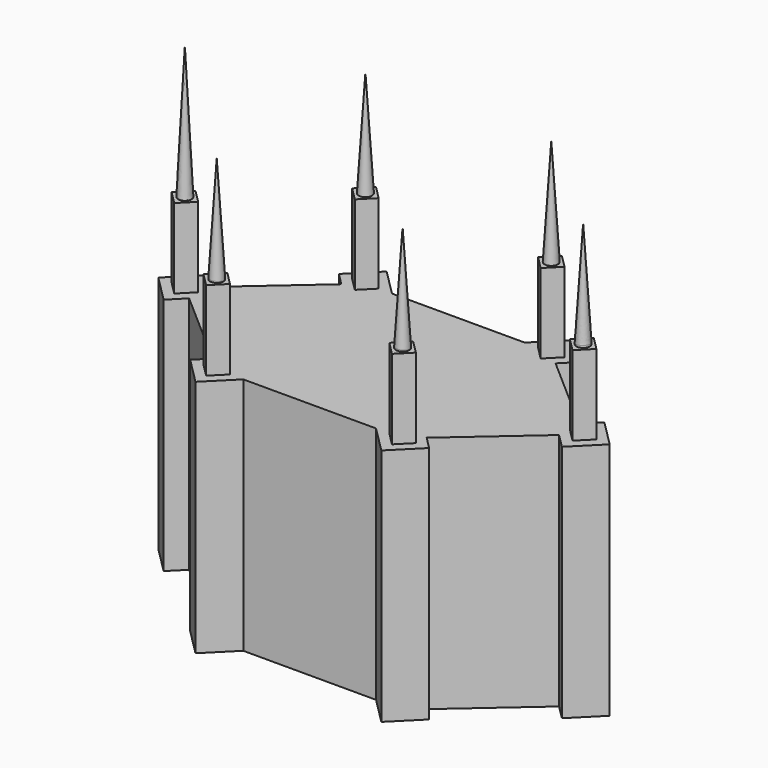
from build123d import *

# Parameters (mm, degrees)
F1_DEPTH = 228.6
F2_R     = 6.35
F3_DEPTH = 76.2
F2_R_2   = 0.031882
F4_DEPTH = 177.8
F5_DEPTH = 203.2


with BuildPart() as f1:
    # F0 (on Top) → F1 (new body)
    with BuildSketch(Plane.XY):
        Polygon((-190.5, 0), (-176.955379, 11.851543), (-190.5, 25.396164), (-215.896164, 0), (-190.5, -25.396164), (-176.955379, -11.851543), align=None)
        Polygon((-165.103836, 0), (-176.955379, 11.851543), (-190.5, 0), (-176.955379, -11.851543), align=None)
        Polygon((-88.9, 0), (-88.9, 63.5), (-102.446667, 77.046667), (-176.955379, 11.851543), (-165.103836, 0), (-176.955379, -11.851543), (-102.446667, -77.046667), (-88.9, -63.5), align=None)
        Polygon((-88.9, 63.5), (-63.5, 88.9), (-88.9, 114.3), (-114.3, 88.9), (-102.446667, 77.046667), align=None)
        Polygon((-63.5, -88.9), (-88.9, -63.5), (-102.446667, -77.046667), (-114.3, -88.9), (-88.9, -114.3), align=None)
        Polygon((102.446667, -77.046667), (88.9, -63.5), (63.5, -88.9), (88.9, -114.3), (114.3, -88.9), align=None)
        Polygon((102.446667, 77.046667), (88.9, 63.5), (88.9, 0), (88.9, -63.5), (102.446667, -77.046667), (176.955379, -11.851543), (165.103836, 0), (176.955379, 11.851543), align=None)
        Polygon((63.5, 88.9), (0, 88.9), (-63.5, 88.9), (-88.9, 63.5), (-88.9, 0), (-88.9, -63.5), (-63.5, -88.9), (0, -88.9), (63.5, -88.9), (88.9, -63.5), (88.9, 0), (88.9, 63.5), align=None)
        Polygon((88.9, 114.3), (63.5, 88.9), (88.9, 63.5), (102.446667, 77.046667), (114.3, 88.9), align=None)
        Polygon((190.5, 25.396164), (176.955379, 11.851543), (190.5, 0), (176.955379, -11.851543), (190.5, -25.396164), (215.896164, 0), align=None)
        Polygon((190.5, 0), (176.955379, 11.851543), (165.103836, 0), (176.955379, -11.851543), align=None)
    extrude(amount=F1_DEPTH)

    # F2 (on face) → F3 (join)
    with BuildSketch(Plane.XY.offset(228.6)):
        Polygon((-177.801918, 0), (-190.5, 12.698082), (-203.198082, 0), (-190.5, -12.698082), align=None)
        with Locations((-190.5, 0)):
            Circle(F2_R, mode=Mode.SUBTRACT)
        Polygon((-88.9, 101.6), (-101.6, 88.9), (-88.9, 76.2), (-76.2, 88.9), align=None)
        with Locations((-88.9, 88.857636)):
            Circle(F2_R, mode=Mode.SUBTRACT)
        Polygon((190.5, -12.698082), (203.198082, 0), (190.5, 12.698082), (177.801918, 0), align=None)
        with Locations((190.5, 0)):
            Circle(F2_R, mode=Mode.SUBTRACT)
        Polygon((88.9, -101.6), (101.6, -88.9), (88.9, -76.2), (76.2, -88.9), align=None)
        with Locations((88.9, -88.857636)):
            Circle(F2_R, mode=Mode.SUBTRACT)
        Polygon((-101.6, -88.9), (-88.9, -101.6), (-76.2, -88.9), (-88.9, -76.2), align=None)
        with Locations((-88.9, -88.857636)):
            Circle(F2_R, mode=Mode.SUBTRACT)
        Polygon((101.6, 88.9), (88.9, 101.6), (76.2, 88.9), (88.9, 76.2), align=None)
        with Locations((88.9, 88.857636)):
            Circle(F2_R, mode=Mode.SUBTRACT)
    extrude(amount=F3_DEPTH)

    # F2 (on face) → F4 (join)
    with BuildSketch(Plane.XY.offset(228.6)):
        with Locations((-88.9, 88.857636)):
            Circle(F2_R)
        with Locations((-88.9, 88.857636)):
            Circle(F2_R_2, mode=Mode.SUBTRACT)
        with Locations((190.5, 0)):
            Circle(F2_R)
        with Locations((-88.9, -88.857636)):
            Circle(F2_R)
        with Locations((-88.9, -88.857636)):
            Circle(F2_R_2, mode=Mode.SUBTRACT)
        with Locations((88.9, -88.857636)):
            Circle(F2_R)
        with Locations((88.9, -88.857636)):
            Circle(F2_R_2, mode=Mode.SUBTRACT)
        with Locations((88.9, 88.857636)):
            Circle(F2_R)
        with Locations((88.9, 88.857636)):
            Circle(F2_R_2, mode=Mode.SUBTRACT)
    extrude(amount=F4_DEPTH)

    # F2 (on face) → F5 (join)
    with BuildSketch(Plane.XY.offset(228.6)):
        with Locations((-190.5, 0)):
            Circle(F2_R)
    extrude(amount=F5_DEPTH)

    # F6 (on face) → F7 (revolve, cut)
    with BuildSketch(Plane.XZ.offset(88.9)):
        Polygon((-88.8746, 406.4), (-82.4992, 304.8), (-82.4992, 406.4), align=None)
    revolve(axis=Axis((-88.9, -88.9, 355.6), (0, 0, 1)), mode=Mode.SUBTRACT)

    # F8 (on face) → F9 (revolve, cut)
    with BuildSketch(Plane.XZ.offset(88.9)):
        Polygon((88.925809, 406.4), (95.301209, 304.8), (95.301209, 406.4), align=None)
    revolve(axis=Axis((88.900409, -88.9, 355.6), (0, 0, 1)), mode=Mode.SUBTRACT)

    # F10 (on face) → F11 (revolve, cut)
    with BuildSketch(Plane(origin=(0, 88.9, 0), x_dir=(-1, 0, 0), z_dir=(0, 1, 0))):
        Polygon((88.92522, 406.4), (95.30062, 304.8), (95.30062, 406.4), align=None)
    revolve(axis=Axis((-88.89982, 88.9, 355.6), (0, 0, 1)), mode=Mode.SUBTRACT)

    # F12 (on face) → F13 (revolve, cut)
    with BuildSketch(Plane(origin=(0, 88.9, 0), x_dir=(-1, 0, 0), z_dir=(0, 1, 0))):
        Polygon((-88.873655, 406.4), (-82.498255, 304.8), (-82.498255, 406.4), align=None)
    revolve(axis=Axis((88.899055, 88.9, 355.6), (0, 0, 1)), mode=Mode.SUBTRACT)

    # F14 (on face) → F15 (revolve, cut)
    with BuildSketch(Plane(origin=(82.606195, 94.40708, 0), x_dir=(-0.752577, 0.658505, 0), z_dir=(0.658505, 0.752577, 0))):
        Polygon((-143.398283, 406.4), (-136.997483, 304.8), (-136.997483, 406.4), align=None)
    revolve(axis=Axis((190.543516, -0.038076, 355.6), (0, 0, 1)), mode=Mode.SUBTRACT)

    # F16 (on face) → F17 (revolve, cut)
    with BuildSketch(Plane(origin=(-82.606195, -94.40708, 0), x_dir=(0.752577, -0.658505, 0), z_dir=(-0.658505, -0.752577, 0))):
        Polygon((-143.395834, 431.8), (-136.995034, 304.8), (-136.995034, 431.8), align=None)
    revolve(axis=Axis((-190.541673, 0.036464, 368.3), (0, 0, 1)), mode=Mode.SUBTRACT)


solid = f1.part
